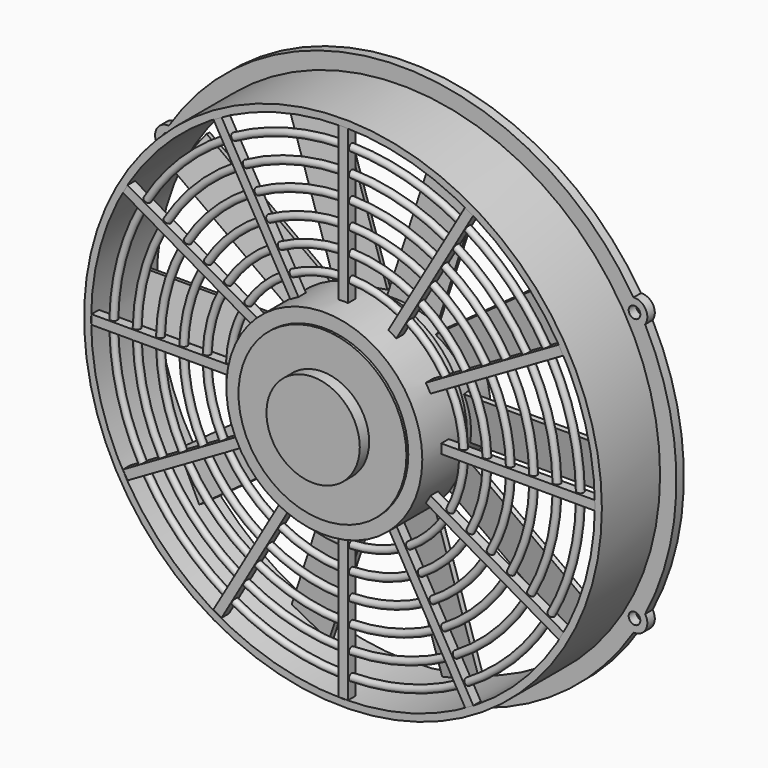
from build123d import *

# Parameters (mm, degrees)
TORUS004_R             = 1.905
TORUS004_ROLL_ANGLE    = 90
TORUS003_R             = 1.905
TORUS003_ROLL_ANGLE    = 90
TORUS002_R             = 1.905
TORUS002_ROLL_ANGLE    = 90
TORUS001_R             = 1.905
TORUS001_ROLL_ANGLE    = 90
TORUS_R                = 1.905
TORUS_ROLL_ANGLE       = 90
TORUS005_R             = 1.905
TORUS005_ROLL_ANGLE    = 90
CYLINDER003_R          = 53.34
CYLINDER003_DEPTH      = 30.48
CYLINDER003_ROLL_ANGLE = 90
CYLINDER_R             = 45.72
CYLINDER_DEPTH         = 57.15
CYLINDER_ROLL_ANGLE    = 90
CYLINDER001_R          = 25.4
CYLINDER001_DEPTH      = 63.5
CYLINDER001_ROLL_ANGLE = 90
PAD001012_DEPTH        = 5.08
PAD001006_DEPTH        = 5.08
SKETCH005_W            = 5.08
SKETCH005_H            = 88.9
PAD001005_DEPTH        = 5.08
PAD001004_DEPTH        = 5.08
PAD001003_DEPTH        = 5.08
SKETCH008_W            = 88.9
SKETCH008_H            = 5.08
PAD001008_DEPTH        = 5.08
PAD001013_DEPTH        = 5.08
PAD001010_DEPTH        = 5.08
PAD001007_DEPTH        = 5.08
SKETCH011_W            = 5.08
SKETCH011_H            = 88.9
PAD001011_DEPTH        = 5.08
PAD001009_DEPTH        = 5.08
SKETCH002_W            = 88.9
SKETCH002_H            = 5.08
PAD001002_DEPTH        = 5.08
PAD001014_DEPTH        = 10.16
PAD009_DEPTH           = 91.44
PAD008_DEPTH           = 91.44
PAD007_DEPTH           = 91.44
PAD006_DEPTH           = 91.44
PAD005_DEPTH           = 91.44
PAD004_DEPTH           = 91.44
PAD003_DEPTH           = 91.44
PAD002_DEPTH           = 91.44
PAD001015_DEPTH        = 91.44
PAD010_DEPTH           = 91.44
SKETCH_R               = 3.175
SKETCH_R_2             = 137.121968
PAD_DEPTH              = 5.08
SKETCH001_R            = 140.931968
SKETCH001_R_2          = 137.121968
PAD001_DEPTH           = 39.624


with BuildPart() as torus004:
    # Torus004 → Torus004 (revolve)
    with BuildSketch(Plane.XZ):
        with Locations((114.3, 0)):
            Circle(TORUS004_R)
    revolve(axis=Axis((0, 0, 0), (0, 0, 1)))


with BuildPart() as torus004_1:
    # Torus004 roll: moved
    add(torus004.part.rotate(Axis((0, 0, 0), (1, 0, 0)), TORUS004_ROLL_ANGLE))


with BuildPart() as torus004_2:
    # Torus004 placement: moved
    add(torus004_1.part)


with BuildPart() as torus003:
    # Torus003 → Torus003 (revolve)
    with BuildSketch(Plane.XZ):
        with Locations((101.6, 0)):
            Circle(TORUS003_R)
    revolve(axis=Axis((0, 0, 0), (0, 0, 1)))


with BuildPart() as torus003_1:
    # Torus003 roll: moved
    add(torus003.part.rotate(Axis((0, 0, 0), (1, 0, 0)), TORUS003_ROLL_ANGLE))


with BuildPart() as torus003_2:
    # Torus003 placement: moved
    add(torus003_1.part)


with BuildPart() as torus002:
    # Torus002 → Torus002 (revolve)
    with BuildSketch(Plane.XZ):
        with Locations((88.9, 0)):
            Circle(TORUS002_R)
    revolve(axis=Axis((0, 0, 0), (0, 0, 1)))


with BuildPart() as torus002_1:
    # Torus002 roll: moved
    add(torus002.part.rotate(Axis((0, 0, 0), (1, 0, 0)), TORUS002_ROLL_ANGLE))


with BuildPart() as torus002_2:
    # Torus002 placement: moved
    add(torus002_1.part)


with BuildPart() as torus001:
    # Torus001 → Torus001 (revolve)
    with BuildSketch(Plane.XZ):
        with Locations((76.2, 0)):
            Circle(TORUS001_R)
    revolve(axis=Axis((0, 0, 0), (0, 0, 1)))


with BuildPart() as torus001_1:
    # Torus001 roll: moved
    add(torus001.part.rotate(Axis((0, 0, 0), (1, 0, 0)), TORUS001_ROLL_ANGLE))


with BuildPart() as torus001_2:
    # Torus001 placement: moved
    add(torus001_1.part)


with BuildPart() as torus:
    # Torus → Torus (revolve)
    with BuildSketch(Plane.XZ):
        with Locations((63.5, 0)):
            Circle(TORUS_R)
    revolve(axis=Axis((0, 0, 0), (0, 0, 1)))


with BuildPart() as torus_1:
    # Torus roll: moved
    add(torus.part.rotate(Axis((0, 0, 0), (1, 0, 0)), TORUS_ROLL_ANGLE))


with BuildPart() as torus_2:
    # Torus placement: moved
    add(torus_1.part)


with BuildPart() as grid_rings:
    # Torus005 → Torus005 (revolve)
    with BuildSketch(Plane.XZ):
        with Locations((127, 0)):
            Circle(TORUS005_R)
    revolve(axis=Axis((0, 0, 0), (0, 0, 1)))


with BuildPart() as grid_rings_1:
    # Torus005 roll: moved
    add(grid_rings.part.rotate(Axis((0, 0, 0), (1, 0, 0)), TORUS005_ROLL_ANGLE))


with BuildPart() as grid_rings_2:
    # Torus005 placement: moved
    add(grid_rings_1.part)

    # Fusion001: union Torus004, Torus003, Torus002, Torus001, Torus
    add(torus004_2.part)
    add(torus003_2.part)
    add(torus002_2.part)
    add(torus001_2.part)
    add(torus_2.part)


with BuildPart() as grid_rings_3:
    # Fusion001 placement: moved
    add(grid_rings_2.part.moved(Location((0, -41.91, 0))))


with BuildPart() as motor_support_out:
    # Cylinder003 → Cylinder003 (new body)
    with BuildSketch(Plane.XY):
        Circle(CYLINDER003_R)
    extrude(amount=CYLINDER003_DEPTH)


with BuildPart() as motor_support_out_1:
    # Cylinder003 roll: moved
    add(motor_support_out.part.rotate(Axis((0, 0, 0), (1, 0, 0)), CYLINDER003_ROLL_ANGLE))


with BuildPart() as motor_support_out_2:
    # Cylinder003 placement: moved
    add(motor_support_out_1.part.moved(Location((0, -26.924, 0))))


with BuildPart() as obj1:
    # Cylinder → Cylinder (new body)
    with BuildSketch(Plane.XY):
        Circle(CYLINDER_R)
    extrude(amount=CYLINDER_DEPTH)


with BuildPart() as obj1_1:
    # Cylinder roll: moved
    add(obj1.part.rotate(Axis((0, 0, 0), (1, 0, 0)), CYLINDER_ROLL_ANGLE))


with BuildPart() as obj1_2:
    # Cylinder placement: moved
    add(obj1_1.part.moved(Location((0, -1.524, 0))))


with BuildPart() as motor_and_support:
    # Cylinder001 → Cylinder001 (new body)
    with BuildSketch(Plane.XY):
        Circle(CYLINDER001_R)
    extrude(amount=CYLINDER001_DEPTH)


with BuildPart() as motor_and_support_1:
    # Cylinder001 roll: moved
    add(motor_and_support.part.rotate(Axis((0, 0, 0), (1, 0, 0)), CYLINDER001_ROLL_ANGLE))


with BuildPart() as motor_and_support_2:
    # Cylinder001 placement: moved
    add(motor_and_support_1.part.moved(Location((0, -1.524, 0))))

    # Fusion: union obj1
    add(obj1_2.part)

    # Fusion002: union motor_support_out
    add(motor_support_out_2.part)


with BuildPart() as spoke_pad11:
    # Sketch012 → Pad001012 (new body)
    with BuildSketch(Plane.XZ.offset(39.37)):
        Polygon((22.565295, 44.164238), (67.015295, 121.153897), (71.414705, 118.613897), (26.964705, 41.624238), align=None)
    extrude(amount=PAD001012_DEPTH)


with BuildPart() as spoke_pad05:
    # Sketch006 → Pad001006 (new body)
    with BuildSketch(Plane.XZ.offset(39.37)):
        Polygon((-22.565295, -44.164238), (-67.015295, -121.153897), (-71.414705, -118.613897), (-26.964705, -41.624238), align=None)
    extrude(amount=PAD001006_DEPTH)


with BuildPart() as spoke_pad04:
    # Sketch005 → Pad001005 (new body)
    with BuildSketch(Plane.XZ.offset(39.37)):
        with Locations((0, -93.98)):
            Rectangle(SKETCH005_W, SKETCH005_H)
    extrude(amount=PAD001005_DEPTH)


with BuildPart() as spoke_pad03:
    # Sketch004 → Pad001004 (new body)
    with BuildSketch(Plane.XZ.offset(39.37)):
        Polygon((26.964705, -41.624238), (71.414705, -118.613897), (67.015295, -121.153897), (22.565295, -44.164238), align=None)
    extrude(amount=PAD001004_DEPTH)


with BuildPart() as spoke_pad02:
    # Sketch003 → Pad001003 (new body)
    with BuildSketch(Plane.XZ.offset(39.37)):
        Polygon((44.164238, -22.565295), (121.153897, -67.015295), (118.613897, -71.414705), (41.624238, -26.964705), align=None)
    extrude(amount=PAD001003_DEPTH)


with BuildPart() as spoke_pad07:
    # Sketch008 → Pad001008 (new body)
    with BuildSketch(Plane.XZ.offset(39.37)):
        with Locations((-93.98, 0)):
            Rectangle(SKETCH008_W, SKETCH008_H)
    extrude(amount=PAD001008_DEPTH)


with BuildPart() as spoke_pad12:
    # Sketch013 → Pad001013 (new body)
    with BuildSketch(Plane.XZ.offset(39.37)):
        Polygon((41.624238, 26.964705), (118.613897, 71.414705), (121.153897, 67.015295), (44.164238, 22.565295), align=None)
    extrude(amount=PAD001013_DEPTH)


with BuildPart() as spoke_pad09:
    # Sketch010 → Pad001010 (new body)
    with BuildSketch(Plane.XZ.offset(39.37)):
        Polygon((-26.964705, 41.624238), (-71.414705, 118.613897), (-67.015295, 121.153897), (-22.565295, 44.164238), align=None)
    extrude(amount=PAD001010_DEPTH)


with BuildPart() as spoke_pad06:
    # Sketch007 → Pad001007 (new body)
    with BuildSketch(Plane.XZ.offset(39.37)):
        Polygon((-41.624238, -26.964705), (-118.613897, -71.414705), (-121.153897, -67.015295), (-44.164238, -22.565295), align=None)
    extrude(amount=PAD001007_DEPTH)


with BuildPart() as spoke_pad10:
    # Sketch011 → Pad001011 (new body)
    with BuildSketch(Plane.XZ.offset(39.37)):
        with Locations((0, 93.98)):
            Rectangle(SKETCH011_W, SKETCH011_H)
    extrude(amount=PAD001011_DEPTH)


with BuildPart() as spoke_pad08:
    # Sketch009 → Pad001009 (new body)
    with BuildSketch(Plane.XZ.offset(39.37)):
        Polygon((-44.164238, 22.565295), (-121.153897, 67.015295), (-118.613897, 71.414705), (-41.624238, 26.964705), align=None)
    extrude(amount=PAD001009_DEPTH)


with BuildPart() as spokes_fusion:
    # Sketch002 → Pad001002 (new body)
    with BuildSketch(Plane.XZ.offset(39.37)):
        with Locations((93.98, 0)):
            Rectangle(SKETCH002_W, SKETCH002_H)
    extrude(amount=PAD001002_DEPTH)

    # Fusion002002: union spoke_pad11, spoke_pad05, spoke_pad04, spoke_pad03, spoke_pad02, spoke_pad07, spoke_pad12, spoke_pad09, spoke_pad06, spoke_pad10, spoke_pad08
    add(spoke_pad11.part)
    add(spoke_pad05.part)
    add(spoke_pad04.part)
    add(spoke_pad03.part)
    add(spoke_pad02.part)
    add(spoke_pad07.part)
    add(spoke_pad12.part)
    add(spoke_pad09.part)
    add(spoke_pad06.part)
    add(spoke_pad10.part)
    add(spoke_pad08.part)


with BuildPart() as blade_support_pad:
    # Sketch014 → Pad001014 (new body)
    with BuildSketch(Plane.XZ):
        Polygon((0, 43.213061), (25.4, 34.960101), (41.098063, 13.35357), (41.098063, -13.35357), (25.4, -34.960101), (0, -43.213061), (-25.4, -34.960101), (-41.098063, -13.35357), (-41.098063, 13.35357), (-25.4, 34.960101), align=None)
    extrude(amount=PAD001014_DEPTH)


with BuildPart() as pad009:
    # Pad009 base: copy of blade_support_pad
    add(blade_support_pad.part)

    # Sketch023 → Pad009 (new body)
    with BuildSketch(Plane(origin=(33.249032, 0, -24.156836), x_dir=(0.587785, 0, 0.809017), z_dir=(0.809017, 0, -0.587785))):
        Polygon((-12.948125, 4.10608), (12.065992, 8.516744), (12.507058, 6.015332), (-12.507058, 1.604668), align=None)
    extrude(amount=PAD009_DEPTH)


with BuildPart() as pad008:
    # Pad008 base: copy of blade_support_pad
    add(blade_support_pad.part)

    # Sketch022 → Pad008 (new body)
    with BuildSketch(Plane(origin=(12.7, 0, -39.086581), x_dir=(0.951057, 0, 0.309017), z_dir=(0.309017, 0, -0.951057))):
        Polygon((-12.948125, 4.10608), (12.065992, 8.516744), (12.507058, 6.015332), (-12.507058, 1.604668), align=None)
    extrude(amount=PAD008_DEPTH)


with BuildPart() as pad007:
    # Pad007 base: copy of blade_support_pad
    add(blade_support_pad.part)

    # Sketch021 → Pad007 (new body)
    with BuildSketch(Plane(origin=(-12.7, 0, -39.086581), x_dir=(0.951057, 0, -0.309017), z_dir=(-0.309017, 0, -0.951057))):
        Polygon((-12.948125, 4.10608), (12.065992, 8.516744), (12.507058, 6.015332), (-12.507058, 1.604668), align=None)
    extrude(amount=PAD007_DEPTH)


with BuildPart() as pad006:
    # Pad006 base: copy of blade_support_pad
    add(blade_support_pad.part)

    # Sketch020 → Pad006 (new body)
    with BuildSketch(Plane(origin=(-33.249032, 0, -24.156836), x_dir=(0.587785, 0, -0.809017), z_dir=(-0.809017, 0, -0.587785))):
        Polygon((-12.948125, 4.10608), (12.065992, 8.516744), (12.507058, 6.015332), (-12.507058, 1.604668), align=None)
    extrude(amount=PAD006_DEPTH)


with BuildPart() as pad005:
    # Pad005 base: copy of blade_support_pad
    add(blade_support_pad.part)

    # Sketch019 → Pad005 (new body)
    with BuildSketch(Plane(origin=(-41.098063, 0, 0), x_dir=(0, 0, -1), z_dir=(-1, 0, 0))):
        Polygon((-12.948125, 4.10608), (12.065992, 8.516744), (12.507058, 6.015332), (-12.507058, 1.604668), align=None)
    extrude(amount=PAD005_DEPTH)


with BuildPart() as pad004:
    # Pad004 base: copy of blade_support_pad
    add(blade_support_pad.part)

    # Sketch018 → Pad004 (new body)
    with BuildSketch(Plane(origin=(-33.249032, 0, 24.156836), x_dir=(-0.587785, 0, -0.809017), z_dir=(-0.809017, 0, 0.587785))):
        Polygon((-12.948125, 4.10608), (12.065992, 8.516744), (12.507058, 6.015332), (-12.507058, 1.604668), align=None)
    extrude(amount=PAD004_DEPTH)


with BuildPart() as pad003:
    # Pad003 base: copy of blade_support_pad
    add(blade_support_pad.part)

    # Sketch017 → Pad003 (new body)
    with BuildSketch(Plane(origin=(-12.7, 0, 39.086581), x_dir=(-0.951057, 0, -0.309017), z_dir=(-0.309017, 0, 0.951057))):
        Polygon((-12.948125, 4.10608), (12.065992, 8.516744), (12.507058, 6.015332), (-12.507058, 1.604668), align=None)
    extrude(amount=PAD003_DEPTH)


with BuildPart() as pad002:
    # Pad002 base: copy of blade_support_pad
    add(blade_support_pad.part)

    # Sketch016 → Pad002 (new body)
    with BuildSketch(Plane(origin=(12.7, 0, 39.086581), x_dir=(-0.951057, 0, 0.309017), z_dir=(0.309017, 0, 0.951057))):
        Polygon((-12.948125, 4.10608), (12.065992, 8.516744), (12.507058, 6.015332), (-12.507058, 1.604668), align=None)
    extrude(amount=PAD002_DEPTH)


with BuildPart() as pad001015:
    # Pad001015 base: copy of blade_support_pad
    add(blade_support_pad.part)

    # Sketch015 → Pad001015 (new body)
    with BuildSketch(Plane(origin=(33.249032, 0, 24.156836), x_dir=(-0.587785, 0, 0.809017), z_dir=(0.809017, 0, 0.587785))):
        Polygon((-12.948125, 4.10608), (12.065992, 8.516744), (12.507058, 6.015332), (-12.507058, 1.604668), align=None)
    extrude(amount=PAD001015_DEPTH)


with BuildPart() as blade_fusion:
    # Pad010 base: copy of blade_support_pad
    add(blade_support_pad.part)

    # Sketch024 → Pad010 (new body)
    with BuildSketch(Plane(origin=(41.098063, 0, 0), x_dir=(0, 0, 1), z_dir=(1, 0, 0))):
        Polygon((-12.948125, 4.10608), (12.065992, 8.516744), (12.507058, 6.015332), (-12.507058, 1.604668), align=None)
    extrude(amount=PAD010_DEPTH)

    # Fusion002002002: union Pad009, Pad008, Pad007, Pad006, Pad005, Pad004, Pad003, Pad002, Pad001015
    add(pad009.part)
    add(pad008.part)
    add(pad007.part)
    add(pad006.part)
    add(pad005.part)
    add(pad004.part)
    add(pad003.part)
    add(pad002.part)
    add(pad001015.part)


with BuildPart() as blade_fusion_1:
    # Fusion002002002 placement: moved
    add(blade_fusion.part.moved(Location((0, -8.89, 0))))


with BuildPart() as fan_parts_fusion:
    # Sketch → Pad (new body)
    with BuildSketch(Plane.XZ):
        with BuildLine():
            ThreePointArc((-126.491676, 80.289963), (-133.049187, 76.815984), (-132.778986, 69.400023))
            ThreePointArc((-132.778986, 69.400023), (-149.821968, 0), (-132.778986, -69.400023))
            ThreePointArc((-132.778986, -69.400023), (-133.049187, -76.815984), (-126.491676, -80.289963))
            ThreePointArc((-126.491676, -80.289963), (0, -149.821968), (126.491676, -80.289963))
            ThreePointArc((126.491676, -80.289963), (133.049187, -76.815984), (132.778986, -69.400023))
            ThreePointArc((132.778986, -69.400023), (149.821968, 0), (132.778986, 69.400023))
            ThreePointArc((132.778986, 69.400023), (133.049187, 76.815984), (126.491676, 80.289963))
            ThreePointArc((126.491676, 80.289963), (0, 149.821968), (-126.491676, 80.289963))
        make_face()
        with Locations((-127, 73.323484)):
            Circle(SKETCH_R, mode=Mode.SUBTRACT)
        with Locations((127, 73.323484)):
            Circle(SKETCH_R, mode=Mode.SUBTRACT)
        with Locations((127, -73.323484)):
            Circle(SKETCH_R, mode=Mode.SUBTRACT)
        with Locations((-127, -73.323484)):
            Circle(SKETCH_R, mode=Mode.SUBTRACT)
        Circle(SKETCH_R_2, mode=Mode.SUBTRACT)
    extrude(amount=PAD_DEPTH)

    # Sketch001 → Pad001 (new body)
    with BuildSketch(Plane.XZ.offset(5.08)):
        Circle(SKETCH001_R)
        Circle(SKETCH001_R_2, mode=Mode.SUBTRACT)
    extrude(amount=PAD001_DEPTH)

    # Fusion002002003: union grid_rings, motor_and_support, spokes_fusion, blade_fusion
    add(grid_rings_3.part)
    add(motor_and_support_2.part)
    add(spokes_fusion.part)
    add(blade_fusion_1.part)


solid = fan_parts_fusion.part
